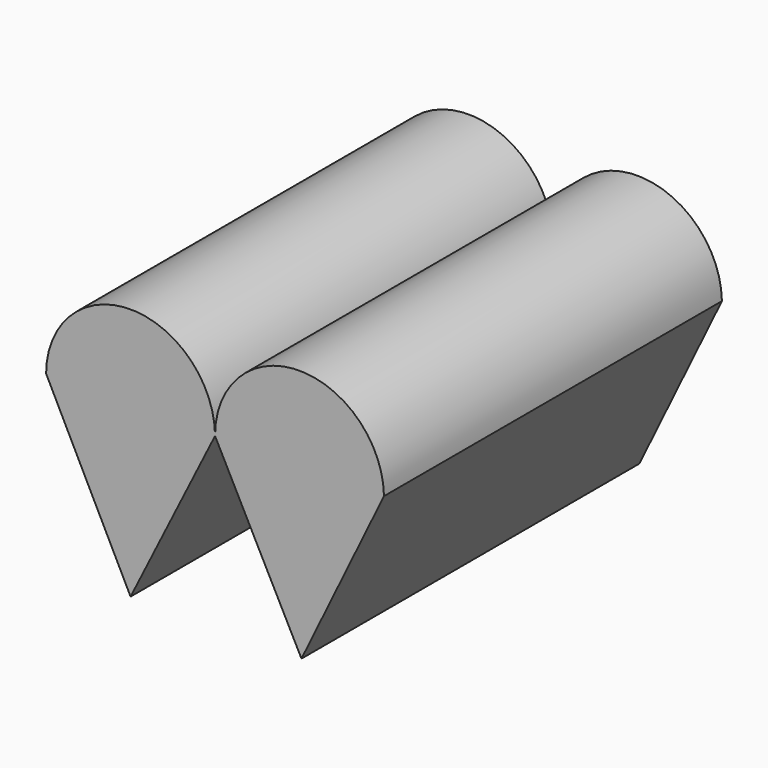
from build123d import *

# Parameters (mm, degrees)
F1_DEPTH = 25


with BuildPart() as f1:
    # F0 (on Front) → F1 (new body)
    with BuildSketch(Plane.XZ):
        with BuildLine():
            Line((-42.255585, 0.057859), (-52.254915, 0))
            Line((-52.254915, 0), (-47.254915, -10))
            Line((-47.254915, -10), (-42.254915, 0))
            ThreePointArc((-42.254915, 0), (-42.255166, 0.02893), (-42.255585, 0.057859))
        make_face()
        with BuildLine():
            ThreePointArc((-42.255585, 0.057859), (-47.283846, 4.971069), (-52.254915, 0))
            Line((-52.254915, 0), (-42.255585, 0.057859))
        make_face()
        with BuildLine():
            Line((-42.254915, 0.057862), (-42.255585, 0.057859))
            ThreePointArc((-42.255585, 0.057859), (-42.255166, 0.02893), (-42.254915, 0))
            ThreePointArc((-42.254915, 0), (-42.254999, 0.028931), (-42.254915, 0.057862))
        make_face()
        with BuildLine():
            ThreePointArc((-42.254915, 0.057862), (-42.254999, 0.028931), (-42.254915, 0))
            Line((-42.254915, 0), (-37.139529, -9.94147))
            Line((-37.139529, -9.94147), (-32.255585, 0.115721))
            Line((-32.255585, 0.115721), (-42.254915, 0.057862))
        make_face()
        with BuildLine():
            ThreePointArc((-32.255585, 0.115721), (-37.283846, 5.028931), (-42.254915, 0.057862))
            Line((-42.254915, 0.057862), (-32.255585, 0.115721))
        make_face()
    extrude(amount=F1_DEPTH)


solid = f1.part
